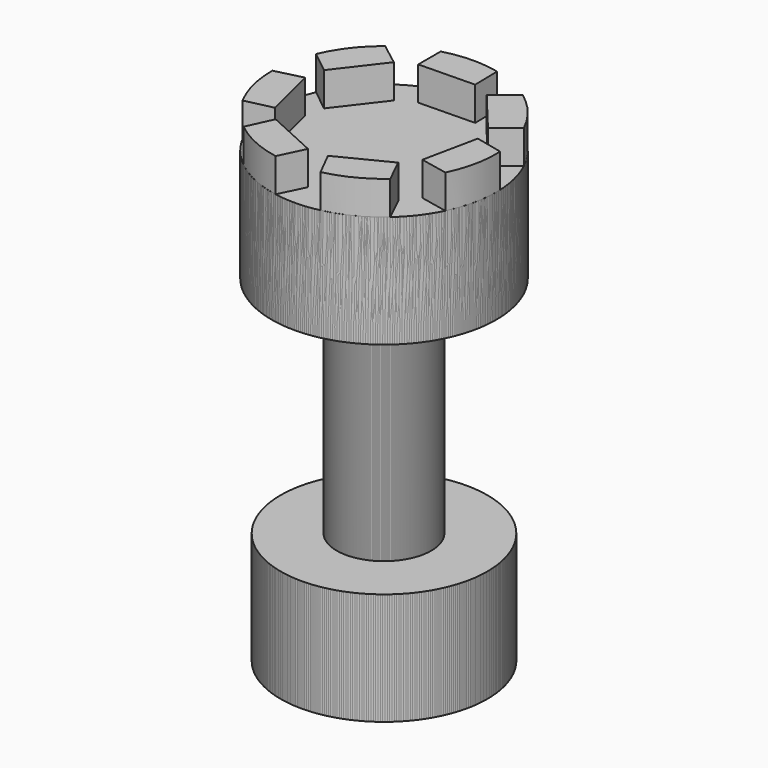
from build123d import *

# Parameters (mm, degrees)
F3_DEPTH = 6
F4_COUNT = 7


with BuildPart() as f1:
    # F0 (on Front) → F1 (revolve)
    with BuildSketch(Plane.XZ):
        Polygon((20, 40), (0, 40), (0, -40), (18.404016, -40), (18.404016, -20), (8.404016, -20), (8.404016, 20), (20, 20), align=None)
    revolve(axis=Axis((0, 0, -5.637038), (0, 0, -1)))

    # F2 (on face) → F3 (join)
    with BuildSketch(Plane.XY.offset(40)):
        with BuildLine():
            ThreePointArc((4.580755, 19.468351), (-0.382652, 19.996339), (-5.322226, 19.278846))
            Line((-5.322226, 19.278846), (-5.322226, 14.278846))
            Line((-5.322226, 14.278846), (4.675961, 14.469257))
            Line((4.675961, 14.469257), (4.580755, 19.468351))
        make_face()
    extrude(amount=F3_DEPTH)


with BuildPart() as f4_1:
    # F4: instance of F1
    add(f1.part.rotate(Axis((0, 0, 20), (0, 0, 1)), 1 * 360 / F4_COUNT))


with BuildPart() as f4_2:
    # F4: instance of F1
    add(f1.part.rotate(Axis((0, 0, 20), (0, 0, 1)), 2 * 360 / F4_COUNT))


with BuildPart() as f4_3:
    # F4: instance of F1
    add(f1.part.rotate(Axis((0, 0, 20), (0, 0, 1)), 3 * 360 / F4_COUNT))


with BuildPart() as f4_4:
    # F4: instance of F1
    add(f1.part.rotate(Axis((0, 0, 20), (0, 0, 1)), 4 * 360 / F4_COUNT))


with BuildPart() as f4_5:
    # F4: instance of F1
    add(f1.part.rotate(Axis((0, 0, 20), (0, 0, 1)), 5 * 360 / F4_COUNT))


with BuildPart() as f4_6:
    # F4: instance of F1
    add(f1.part.rotate(Axis((0, 0, 20), (0, 0, 1)), 6 * 360 / F4_COUNT))


solid = Compound([f1.part, f4_1.part, f4_2.part, f4_3.part, f4_4.part, f4_5.part, f4_6.part])
